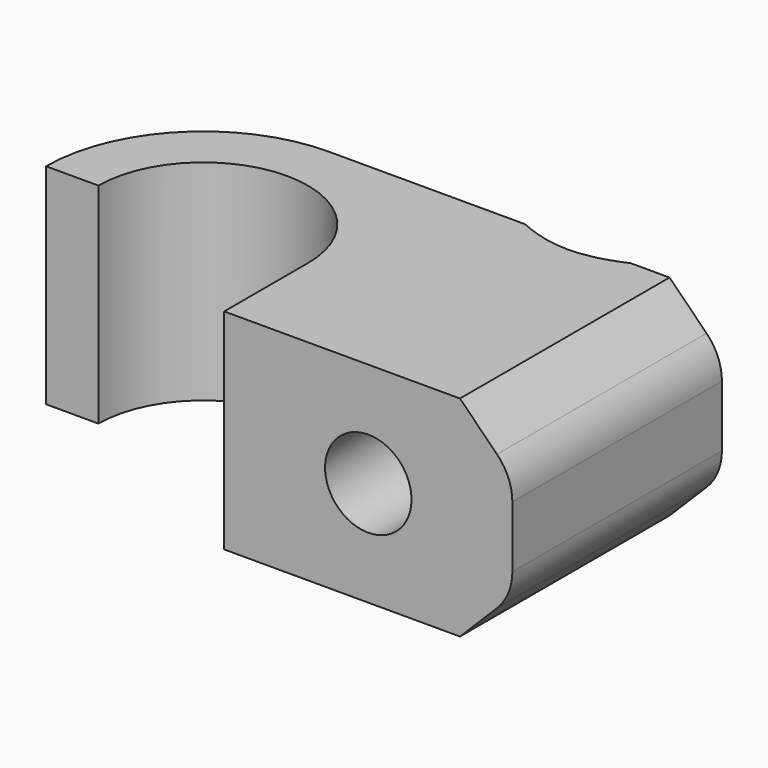
from build123d import *

# Parameters (mm, degrees)
F1_DEPTH       = 4
F3_D           = 3.3
F3_CSINK_D     = 8.96
F3_CSINK_ANGLE = 90
F4_SIZE        = 2
F5_R           = 2


with BuildPart() as f1:
    # F0 (on Top) → F1 (new body, symmetric)
    with BuildSketch(Plane.XY):
        with BuildLine():
            ThreePointArc((-15.5993879735, 12.218022719), (-11.5993879735, 16.218022719), (-7.5993879735, 12.218022719))
            Line((-7.5993879735, 12.218022719), (-7.5993879735, 8.218022719))
            Line((-7.5993879735, 8.218022719), (3.4006120265, 8.218022719))
            Line((3.4006120265, 8.218022719), (3.4006120265, 18.218022719))
            Line((3.4006120265, 18.218022719), (-11.5993879735, 18.218022719))
            ThreePointArc((-11.5993879735, 18.218022719), (-15.8420286607, 16.4606634061), (-17.5993879735, 12.218022719))
            Line((-17.5993879735, 12.218022719), (-15.5993879735, 12.218022719))
        make_face()
    extrude(amount=F1_DEPTH, both=True)

    # F3 (through all)
    with Locations(Plane(origin=(0, 18.218022719, 0), x_dir=(-1, 0, 0), z_dir=(0, 1, 0))):
        with Locations((2.0993879735, 0)):
            CounterSinkHole(F3_D / 2, F3_CSINK_D / 2, counter_sink_angle=F3_CSINK_ANGLE)

    # F4
    f4_edges = [f1.edges().sort_by_distance(p)[0] for p in [
        (3.400612, 13.218023, 4),
        (3.400612, 13.218023, -4),
    ]]
    chamfer(f4_edges, length=F4_SIZE)

    # F5
    f5_edges = [f1.edges().sort_by_distance(p)[0] for p in [
        (3.400612, 13.218023, 2),
        (3.400612, 13.218023, -2),
    ]]
    fillet(f5_edges, radius=F5_R)


solid = f1.part
